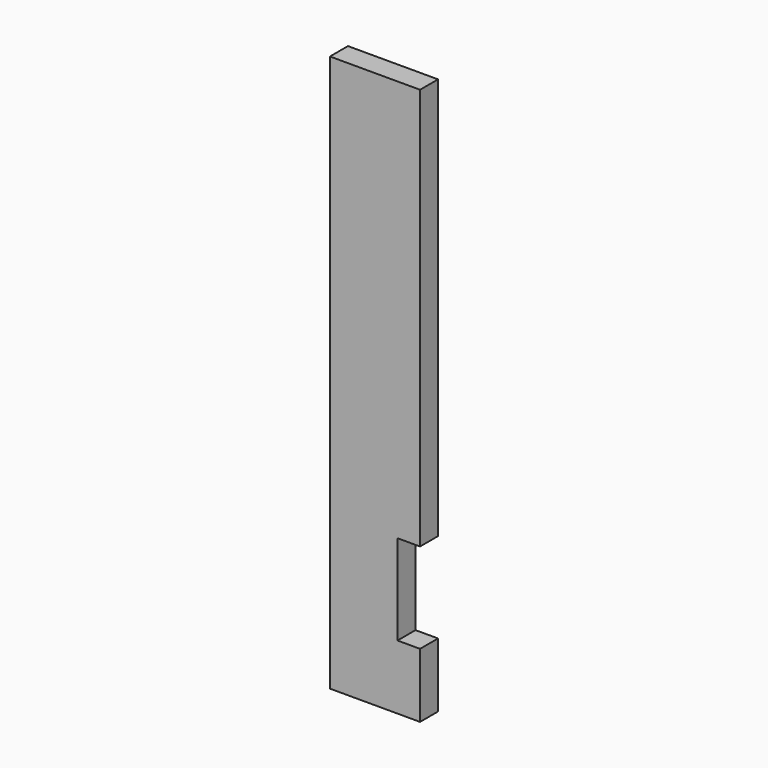
from build123d import *

# Parameters (mm, degrees)
SKETCH_W     = 140
SKETCH_H     = 35
PAD_DEPTH    = 865
SKETCH001_W  = 35
SKETCH001_H  = 140
POCKET_DEPTH = 35.001


with BuildPart() as part:
    # Sketch → Pad (new body)
    with BuildSketch(Plane.XY):
        with Locations((-70, 17.5)):
            Rectangle(SKETCH_W, SKETCH_H)
    extrude(amount=PAD_DEPTH)

    # Sketch001 (on Face1 of Pad) → Pocket (cut, through all)
    with BuildSketch(Plane.XZ):
        with Locations((-17.5, 170)):
            Rectangle(SKETCH001_W, SKETCH001_H)
    extrude(amount=-POCKET_DEPTH, mode=Mode.SUBTRACT)


solid = part.part
